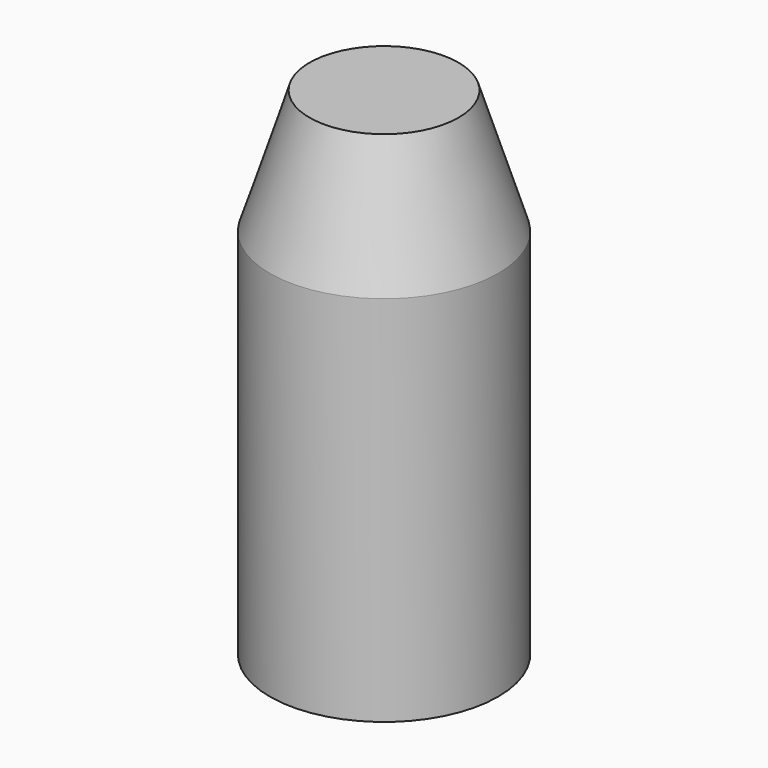
from build123d import *

# Parameters (mm, degrees)
F0_R      = 23.347541
F1_DEPTH  = 76.2
F3_R      = 15.24
F1_FACE_R = 23.347541


with BuildPart() as f1:
    # F0 (on Top) → F1 (new body)
    with BuildSketch(Plane.XY):
        Circle(F0_R)
    extrude(amount=F1_DEPTH)

    # F3 (on offset) → F4 section 0
    with BuildSketch(Plane.XY.offset(101.6)):
        Circle(F3_R)
    # F1_face (on face) → F4 section 1
    with BuildSketch(Plane.XY.offset(76.2)):
        Circle(F1_FACE_R)
    loft()


solid = f1.part
